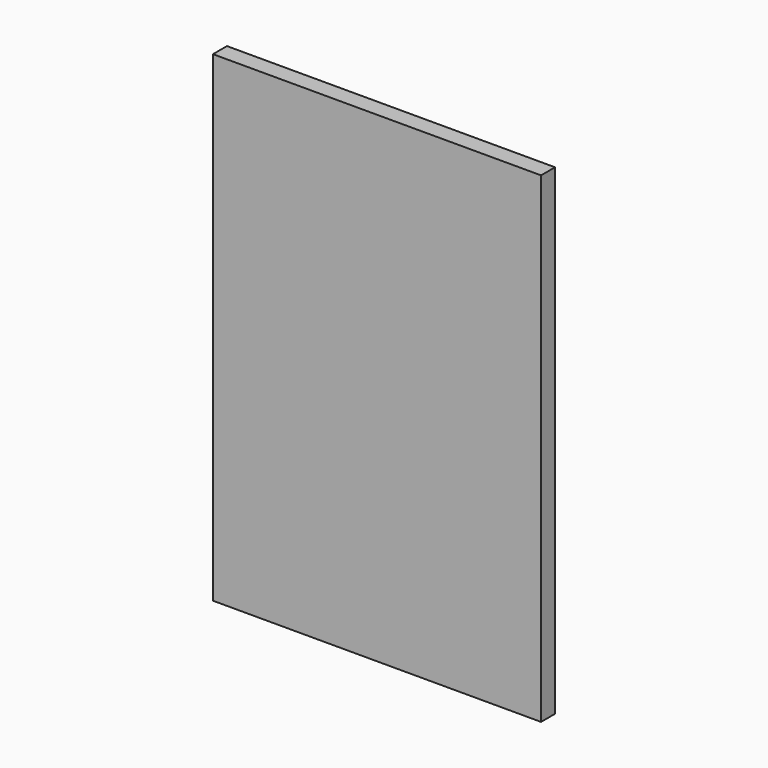
from build123d import *

# Parameters (mm, degrees)
F0_W     = 150
F0_H     = 220
F1_DEPTH = 8
F2_R     = 3
F2_R_2   = 4
F3_DEPTH = 12


with BuildPart() as f1:
    # F0 (on Front) → F1 (new body)
    with BuildSketch(Plane.XZ):
        with Locations((-75, -110)):
            Rectangle(F0_W, F0_H)
    extrude(amount=F1_DEPTH)

    # F2 (on face) → F3 (join)
    with BuildSketch(Plane.XZ.offset(8)):
        with Locations((-75, -187)):
            Circle(F2_R)
        with Locations((-35, -135)):
            Circle(F2_R_2)
        with Locations((-35, -160)):
            Circle(F2_R_2)
        with Locations((-115, -135)):
            Circle(F2_R_2)
        with Locations((-115, -160)):
            Circle(F2_R_2)
    extrude(amount=-F3_DEPTH)


solid = f1.part
